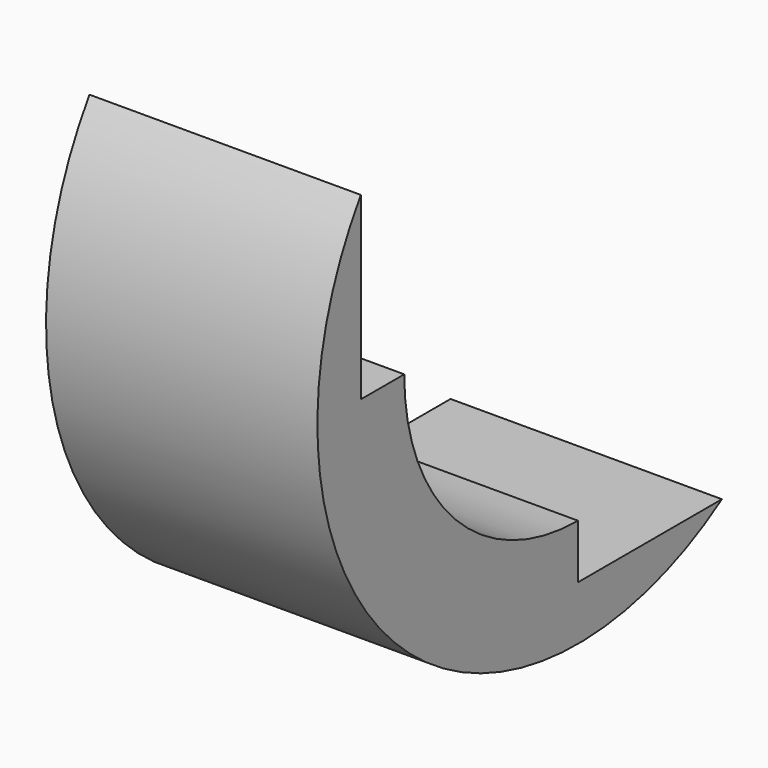
from build123d import *

# Parameters (mm, degrees)
BOX022_W      = 5
BOX022_H      = 10
BOX022_DEPTH  = 8
BOX021_W      = 5
BOX021_H      = 8
BOX021_DEPTH  = 10
TUBE008_R     = 6
TUBE008_R_2   = 4
TUBE008_DEPTH = 5


with BuildPart() as cube022:
    # Box022 → Box022 (new body)
    with BuildSketch(Plane(origin=(0, -2, 3), x_dir=(1, 0, 0), z_dir=(0, 0, 1))):
        with Locations((2.5, 5)):
            Rectangle(BOX022_W, BOX022_H)
    extrude(amount=BOX022_DEPTH)


with BuildPart() as cube021:
    # Box021 → Box021 (new body)
    with BuildSketch(Plane(origin=(0, 3, -2), x_dir=(1, 0, 0), z_dir=(0, 0, 1))):
        with Locations((2.5, 4)):
            Rectangle(BOX021_W, BOX021_H)
    extrude(amount=BOX021_DEPTH)


with BuildPart() as cut026:
    # Tube008 → Tube008 (new body)
    with BuildSketch(Plane(origin=(0, 3, 3), x_dir=(0, 0, -1), z_dir=(1, 0, 0))):
        Circle(TUBE008_R)
        Circle(TUBE008_R_2, mode=Mode.SUBTRACT)
    extrude(amount=TUBE008_DEPTH)

    # Cut025: cut Cube021
    add(cube021.part, mode=Mode.SUBTRACT)

    # Cut026: cut Cube022
    add(cube022.part, mode=Mode.SUBTRACT)


solid = cut026.part
